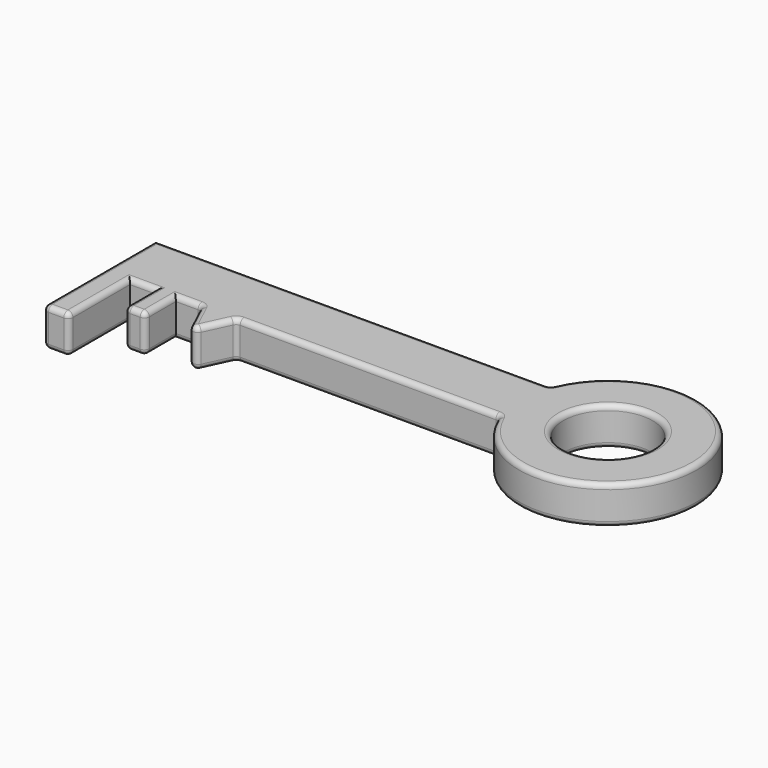
from build123d import *

# Parameters (mm, degrees)
F0_W     = 10
F0_H     = 30
F0_W_2   = 8
F0_H_2   = 15
F1_DEPTH = 15
F2_R     = 2


with BuildPart() as f1:
    # F0 (on Top) → F1 (new body)
    with BuildSketch(Plane.XY):
        with BuildLine():
            Line((-0.7144987679, 25.3522404187), (-155.7144987679, 25.3522404187))
            Line((-155.7144987679, 25.3522404187), (-155.7144987679, 12.8522404187))
            Line((-155.7144987679, 12.8522404187), (-155.7144987679, 0.3522404187))
            Line((-155.7144987679, 0.3522404187), (-145.7144987679, 0.3522404187))
            Line((-145.7144987679, 0.3522404187), (-135.7144987679, 0.3522404187))
            Line((-135.7144987679, 0.3522404187), (-127.7144987679, 0.3522404187))
            Line((-127.7144987679, 0.3522404187), (-117.7144987679, 0.3522404187))
            Line((-117.7144987679, 0.3522404187), (-103.7144987679, 0.3522404187))
            Line((-103.7144987679, 0.3522404187), (-0.7144987679, 0.3522404187))
            ThreePointArc((-0.7144987679, 0.3522404187), (66.9772433087, 12.8522404187), (-0.7144987679, 25.3522404187))
        make_face()
        with BuildLine():
            ThreePointArc((49.4772433087, 12.8522404187), (31.9772433087, -4.6477595813), (14.4772433087, 12.8522404187))
            ThreePointArc((14.4772433087, 12.8522404187), (31.9772433087, 30.3522404187), (49.4772433087, 12.8522404187))
        make_face(mode=Mode.SUBTRACT)
        with Locations((-150.7144987679, -14.6477595813)):
            Rectangle(F0_W, F0_H)
        Polygon((-110.7144987679, -14.6478198812), (-103.7144987679, 0.3522404187), (-117.7144987679, 0.3522404187), align=None)
        with Locations((-131.7144987679, -7.1477595813)):
            Rectangle(F0_W_2, F0_H_2)
    extrude(amount=F1_DEPTH)

    # F2
    f2_edges = [f1.edges().sort_by_distance(p)[0] for p in [
        (49.477243, 12.85224, 15),
        (-78.214499, 25.35224, 15),
        (-155.714499, -2.14776, 15),
        (-150.714499, -29.64776, 15),
        (-145.714499, -14.64776, 15),
        (-140.714499, 0.35224, 15),
        (-135.714499, -7.14776, 15),
        (-131.714499, -14.64776, 15),
        (-127.714499, -7.14776, 15),
        (-122.714499, 0.35224, 15),
        (-114.214499, -7.14779, 15),
        (-107.214499, -7.14779, 15),
        (-52.214499, 0.35224, 15),
        (66.977243, 12.85224, 15),
        (49.477243, 12.85224, 0),
        (-52.214499, 0.35224, 0),
        (66.977243, 12.85224, 0),
        (-78.214499, 25.35224, 0),
        (-145.714499, -29.64776, 7.5),
        (-155.714499, -29.64776, 7.5),
        (-150.714499, -29.64776, 0),
        (-140.714499, 0.35224, 0),
        (-135.714499, -14.64776, 7.5),
        (-131.714499, -14.64776, 0),
        (-127.714499, -14.64776, 7.5),
        (-114.214499, -7.14779, 0),
        (-117.714499, 0.35224, 7.5),
        (-103.714499, 0.35224, 7.5),
        (-110.714499, -14.64782, 7.5),
        (-0.714499, 25.35224, 7.5),
        (-0.714499, 0.35224, 7.5),
        (-107.214499, -7.14779, 0),
        (-155.714499, -2.14776, 0),
        (-145.714499, -14.64776, 0),
        (-135.714499, -7.14776, 0),
        (-127.714499, -7.14776, 0),
        (-122.714499, 0.35224, 0),
    ]]
    fillet(f2_edges, radius=F2_R)


solid = f1.part
